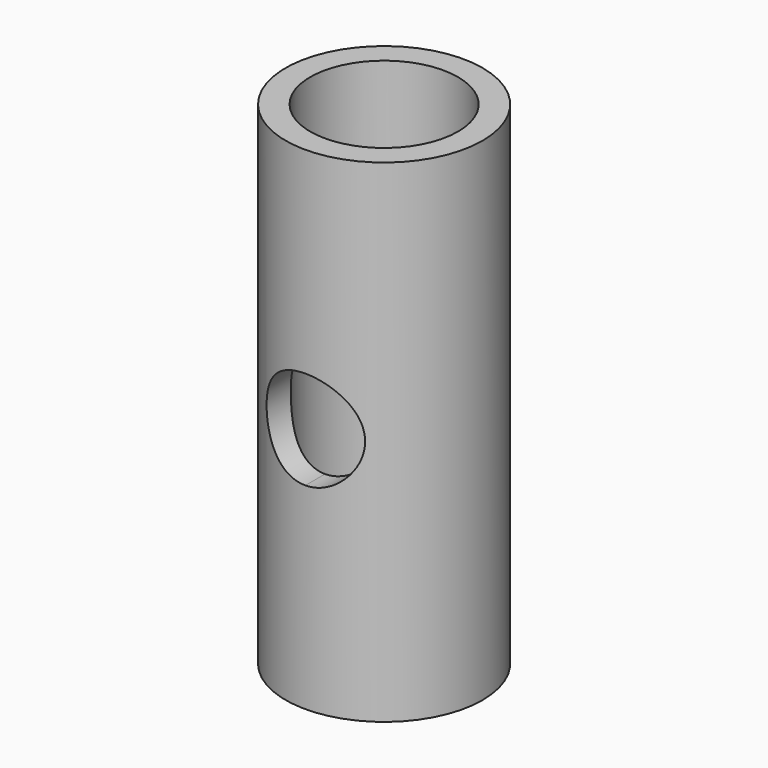
from build123d import *

# Parameters (mm, degrees)
F0_R     = 25.4
F0_R_2   = 19.05
F1_DEPTH = 127
F4_DEPTH = 50.8


with BuildPart() as f1:
    # F0 (on Top) → F1 (new body)
    with BuildSketch(Plane.XY):
        Circle(F0_R)
        Circle(F0_R_2, mode=Mode.SUBTRACT)
    extrude(amount=F1_DEPTH)

    # F3 (on offset) → F4 (cut)
    with BuildSketch(Plane.XZ.offset(25.4)):
        with BuildLine():
            ThreePointArc((0, 50.8), (8.9802561211, 54.5197438789), (12.7, 63.5))
            ThreePointArc((12.7, 63.5), (-8.9802561211, 72.4802561211), (0, 50.8))
        make_face()
    extrude(amount=-F4_DEPTH, mode=Mode.SUBTRACT)


solid = f1.part
